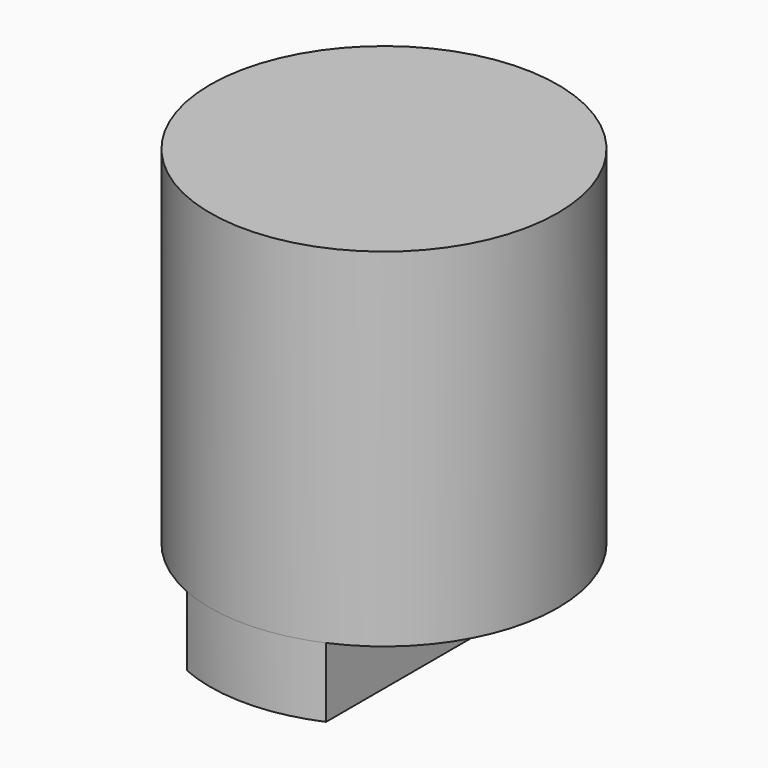
from build123d import *

# Parameters (mm, degrees)
F0_R     = 50
F1_DEPTH = 100
F3_DEPTH = 20


with BuildPart() as f1:
    # F0 (on Top) → F1 (new body)
    with BuildSketch(Plane.XY):
        Circle(F0_R)
    extrude(amount=F1_DEPTH)

    # F2 (on face) → F3 (join)
    with BuildSketch(Plane(origin=(0, 0, 0), x_dir=(1, 0, 0), z_dir=(0, 0, -1))):
        Polygon((-20, 0), (0, 0), (1.783647, 0), (20, 45.825757), align=None)
        Polygon((1.783647, 0), (0, 0), (-20, 0), (-20, -45.825757), (20, -45.825757), (20, 0), align=None)
        Polygon((20, 45.825757), (1.783647, 0), (20, 0), align=None)
        with BuildLine():
            Line((-20, 45.825757), (-20, 0))
            Line((-20, 0), (20, 45.825757))
            ThreePointArc((20, 45.825757), (0, 50), (-20, 45.825757))
        make_face()
        with BuildLine():
            Line((20, -45.825757), (-20, -45.825757))
            ThreePointArc((-20, -45.825757), (0, -50), (20, -45.825757))
        make_face()
    extrude(amount=F3_DEPTH)


solid = f1.part
